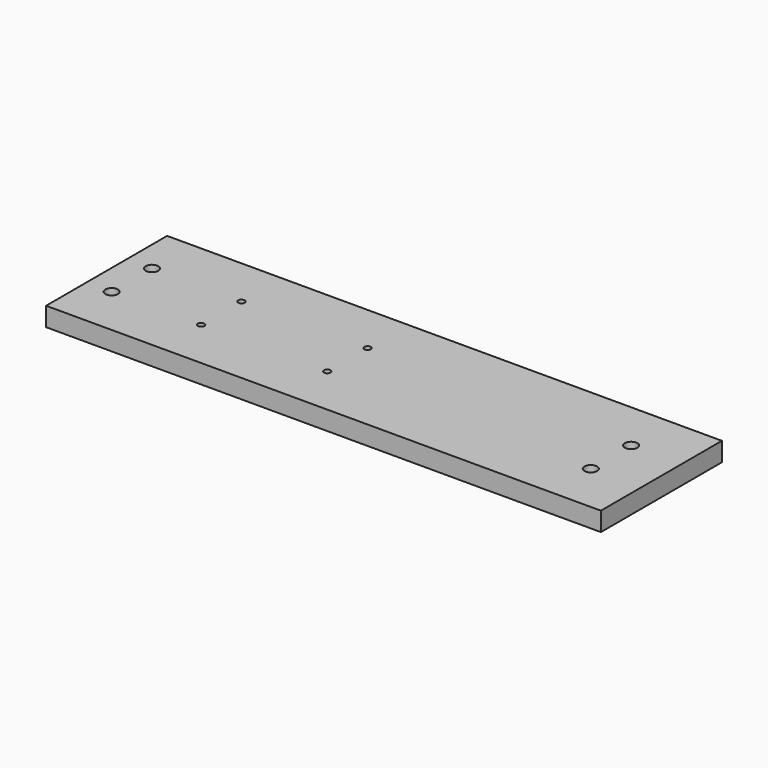
from build123d import *

# Parameters (mm, degrees)
F0_W     = 279.4
F0_H     = 76.2
F0_R     = 3.175
F0_R_2   = 1.651
F1_DEPTH = 9.525


with BuildPart() as f1:
    # F0 (on Top) → F1 (new body)
    with BuildSketch(Plane.XY):
        with Locations((-0.344276, 0)):
            Rectangle(F0_W, F0_H)
        with Locations((-127.344276, -12.7)):
            Circle(F0_R, mode=Mode.SUBTRACT)
        with Locations((-82.28159, -12.7)):
            Circle(F0_R_2, mode=Mode.SUBTRACT)
        with Locations((-18.78159, -12.7)):
            Circle(F0_R_2, mode=Mode.SUBTRACT)
        with Locations((113.955724, -12.7)):
            Circle(F0_R, mode=Mode.SUBTRACT)
        with Locations((-127.344276, 12.7)):
            Circle(F0_R, mode=Mode.SUBTRACT)
        with Locations((-82.28159, 12.7)):
            Circle(F0_R_2, mode=Mode.SUBTRACT)
        with Locations((-18.78159, 12.7)):
            Circle(F0_R_2, mode=Mode.SUBTRACT)
        with Locations((113.955724, 12.7)):
            Circle(F0_R, mode=Mode.SUBTRACT)
    extrude(amount=-F1_DEPTH)


solid = f1.part
